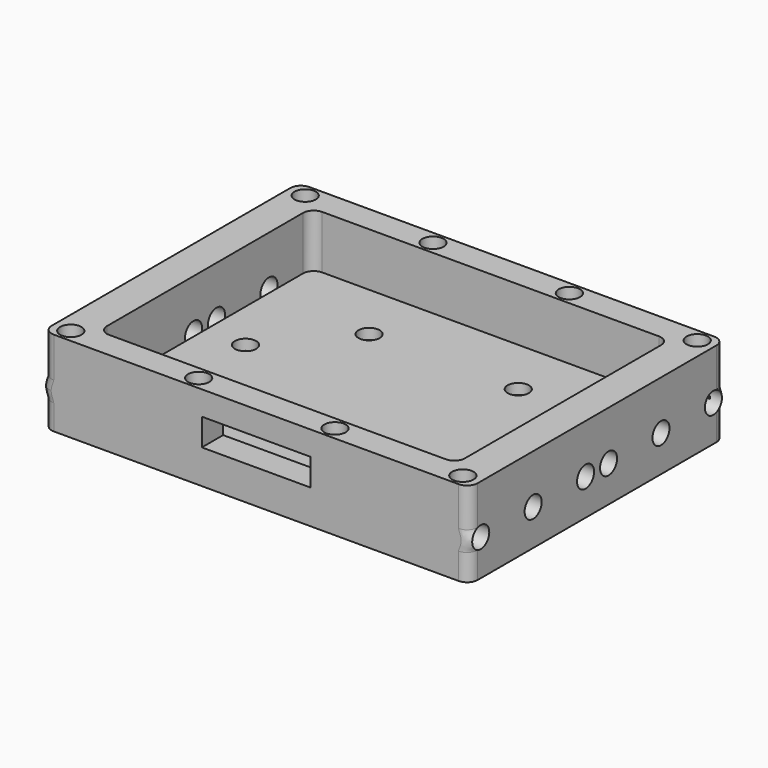
from build123d import *

# Parameters (mm, degrees)
SKETCH_W        = 40
SKETCH_H        = 30
PAD_DEPTH       = 8
SKETCH001_R     = 1
SKETCH001_W     = 33.6
SKETCH001_H     = 25
POCKET_DEPTH    = 5
SKETCH002_R     = 1
POCKET001_DEPTH = 3.2
POCKET002_DEPTH = 3.2
SKETCH003_R     = 1
POCKET003_DEPTH = 3
SKETCH004_R     = 1
POCKET004_DEPTH = 2
SKETCH005_R     = 1
POCKET005_DEPTH = 3.2
SKETCH007_W     = 10.2
SKETCH007_H     = 2.54
POCKET006_DEPTH = 2.5
FILLET_R        = 1


with BuildPart() as part:
    # Sketch (on Sketch) → Pad (new body)
    with BuildSketch(Plane.XY):
        Rectangle(SKETCH_W, SKETCH_H)
    extrude(amount=PAD_DEPTH)

    # Sketch001 (on Face6 of Pad) → Pocket (cut)
    with BuildSketch(Plane.XY.offset(8)):
        with Locations((-18.4, 13.75)):
            Circle(SKETCH001_R)
        with Locations((-6.4, 13.75)):
            Circle(SKETCH001_R)
        with Locations((6.4, 13.75)):
            Circle(SKETCH001_R)
        with Locations((18.4, 13.75)):
            Circle(SKETCH001_R)
        with Locations((-18.4, -13.75)):
            Circle(SKETCH001_R)
        with Locations((-6.4, -13.75)):
            Circle(SKETCH001_R)
        with Locations((6.4, -13.75)):
            Circle(SKETCH001_R)
        with Locations((18.4, -13.75)):
            Circle(SKETCH001_R)
        Rectangle(SKETCH001_W, SKETCH001_H)
    extrude(amount=-POCKET_DEPTH, mode=Mode.SUBTRACT)

    # Sketch002 (on Face2 of Pocket) → Pocket001 (cut)
    with BuildSketch(Plane(origin=(-20, 0, 0), x_dir=(0, -1, 0), z_dir=(-1, 0, 0))):
        with Locations((-13.65, 3.3)):
            Circle(SKETCH002_R)
        with Locations((-1.35, 3.3)):
            Circle(SKETCH002_R)
        with Locations((-7.5, 3.3)):
            Circle(SKETCH002_R)
        with Locations((13.65, 3.3)):
            Circle(SKETCH002_R)
        with Locations((1.35, 3.3)):
            Circle(SKETCH002_R)
        with Locations((7.5, 3.3)):
            Circle(SKETCH002_R)
    extrude(amount=-POCKET001_DEPTH, mode=Mode.SUBTRACT)

    # Sketch002 (on Face2 of Pocket) → Pocket002 (cut)
    with BuildSketch(Plane(origin=(-20, 0, 0), x_dir=(0, -1, 0), z_dir=(-1, 0, 0))):
        with Locations((-13.65, 3.3)):
            Circle(SKETCH002_R)
        with Locations((-1.35, 3.3)):
            Circle(SKETCH002_R)
        with Locations((-7.5, 3.3)):
            Circle(SKETCH002_R)
        with Locations((13.65, 3.3)):
            Circle(SKETCH002_R)
        with Locations((1.35, 3.3)):
            Circle(SKETCH002_R)
        with Locations((7.5, 3.3)):
            Circle(SKETCH002_R)
    extrude(amount=-POCKET002_DEPTH, mode=Mode.SUBTRACT)

    # Sketch003 → Pocket003 (cut)
    with BuildSketch(Plane.XY.offset(5)):
        with Locations((-7, 7)):
            Circle(SKETCH003_R)
        with Locations((7, 7)):
            Circle(SKETCH003_R)
        with Locations((7, -7)):
            Circle(SKETCH003_R)
        with Locations((-7, -7)):
            Circle(SKETCH003_R)
        with Locations((-13, 0)):
            Circle(SKETCH003_R)
        with Locations((13, 0)):
            Circle(SKETCH003_R)
    extrude(amount=-POCKET003_DEPTH, mode=Mode.SUBTRACT)

    # Sketch004 (on Face4 of Pocket003) → Pocket004 (cut)
    with BuildSketch(Plane(origin=(0, 0, 0), x_dir=(1, 0, 0), z_dir=(0, 0, -1))):
        with Locations((-10, 5)):
            Circle(SKETCH004_R)
        with Locations((0, 5)):
            Circle(SKETCH004_R)
        with Locations((10, 5)):
            Circle(SKETCH004_R)
        with Locations((10, -5)):
            Circle(SKETCH004_R)
        with Locations((0, -5)):
            Circle(SKETCH004_R)
        with Locations((-10, -5)):
            Circle(SKETCH004_R)
    extrude(amount=-POCKET004_DEPTH, mode=Mode.SUBTRACT)

    # Sketch005 → Pocket005 (cut)
    with BuildSketch(Plane.YZ.offset(20)):
        with Locations((1.35, 3.4)):
            Circle(SKETCH005_R)
        with Locations((13.65, 3.4)):
            Circle(SKETCH005_R)
        with Locations((7.5, 3.4)):
            Circle(SKETCH005_R)
        with Locations((-1.35, 3.4)):
            Circle(SKETCH005_R)
        with Locations((-13.65, 3.4)):
            Circle(SKETCH005_R)
        with Locations((-7.5, 3.4)):
            Circle(SKETCH005_R)
    extrude(amount=-POCKET005_DEPTH, mode=Mode.SUBTRACT)

    # Sketch007 (on Face6 of Pocket005) → Pocket006 (cut)
    with BuildSketch(Plane.XZ.offset(15)):
        with Locations((0, 4.47)):
            Rectangle(SKETCH007_W, SKETCH007_H)
    extrude(amount=-POCKET006_DEPTH, mode=Mode.SUBTRACT)

    # Fillet
    fillet_edges = [part.edges().sort_by_distance(p)[0] for p in [
        (-20, -15, 4),
        (-20, 15, 4),
        (20, -15, 4),
        (-16.8, -12.5, 5.5),
        (20, 15, 4),
        (16.8, -12.5, 5.5),
        (-16.8, 12.5, 5.5),
        (16.8, 12.5, 5.5),
    ]]
    fillet(fillet_edges, radius=FILLET_R)


solid = part.part
